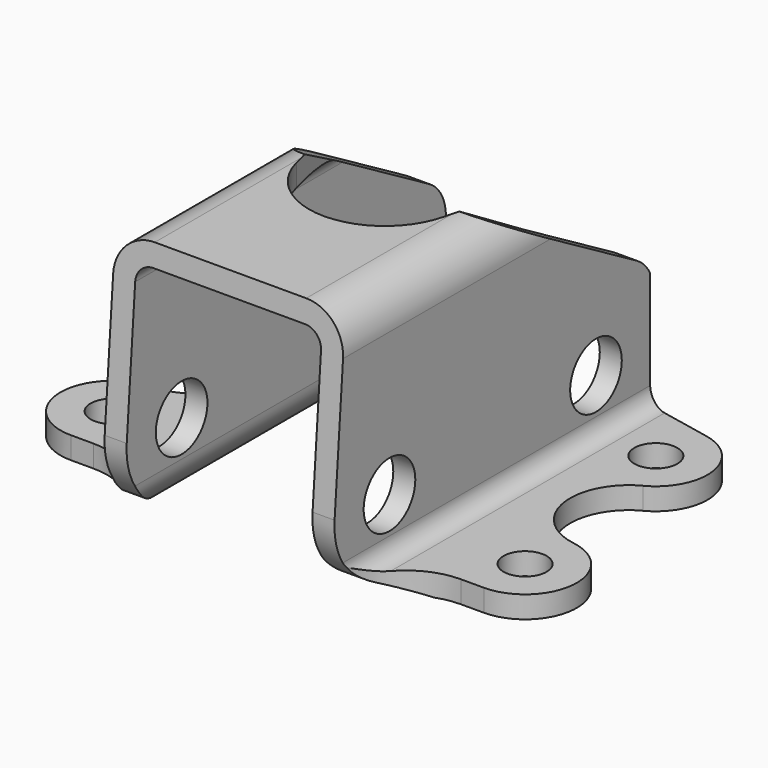
from build123d import *

# Parameters (mm, degrees)
F1_DEPTH = 25.4
F2_R     = 2.38125
F3_DEPTH = 12.7
F5_DEPTH = 63.5
F6_R     = 1.5875
F7_DEPTH = 63.5


with BuildPart() as f1:
    # F0 (on Front) → F1 (new body, symmetric)
    with BuildSketch(Plane.XZ):
        with BuildLine():
            Line((-33.1002511084, 1.6256), (-33.1002511084, 0))
            Line((-33.1002511084, 0), (-9.7536, 0))
            ThreePointArc((-9.7536, 0), (-7.7061016044, 0.8481016044), (-6.858, 2.8956))
            Line((-6.858, 2.8956), (-6.858, 16.1544))
            ThreePointArc((-6.858, 16.1544), (-6.4860256121, 17.0524256121), (-5.588, 17.4244))
            Line((-5.588, 17.4244), (5.588, 17.4244))
            ThreePointArc((5.588, 17.4244), (6.4860256121, 17.0524256121), (6.858, 16.1544))
            Line((6.858, 16.1544), (6.858, 2.8956))
            ThreePointArc((6.858, 2.8956), (7.7061016044, 0.8481016044), (9.7536, 0))
            Line((9.7536, 0), (35.6136485934, 0))
            Line((35.6136485934, 0), (35.6136485934, 1.6256))
            Line((35.6136485934, 1.6256), (9.7536, 1.6256))
            ThreePointArc((9.7536, 1.6256), (8.8555743879, 1.9975743879), (8.4836, 2.8956))
            Line((8.4836, 2.8956), (8.4836, 16.1544))
            ThreePointArc((8.4836, 16.1544), (7.6354983956, 18.2018983956), (5.588, 19.05))
            Line((5.588, 19.05), (-5.588, 19.05))
            ThreePointArc((-5.588, 19.05), (-7.6354983956, 18.2018983956), (-8.4836, 16.1544))
            Line((-8.4836, 16.1544), (-8.4836, 2.8956))
            ThreePointArc((-8.4836, 2.8956), (-8.8555743879, 1.9975743879), (-9.7536, 1.6256))
            Line((-9.7536, 1.6256), (-33.1002511084, 1.6256))
        make_face()
    extrude(amount=F1_DEPTH, both=True)

    # F2 (on Right) → F3 (cut, symmetric)
    with BuildSketch(Plane.YZ):
        with Locations((20.066, 5.588)):
            Circle(F2_R)
        with Locations((1.016, 5.588)):
            Circle(F2_R)
    extrude(amount=F3_DEPTH, both=True, mode=Mode.SUBTRACT)

    # F4 (on Right) → F5 (intersect, symmetric)
    with BuildSketch(Plane.YZ):
        with BuildLine():
            Line((-3.048, 19.05), (-4.0491707322, 5.9758729865))
            ThreePointArc((-4.0491707322, 5.9758729865), (-3.3726807453, 3.0295079996), (-1.142046819, 0.9891703742))
            Line((-1.142046819, 0.9891703742), (0.9658898494, 0))
            Line((0.9658898494, 0), (0.9658898494, -3.7190427538))
            Line((0.9658898494, -3.7190427538), (25.4, -3.7190427538))
            Line((25.4, -3.7190427538), (25.4, 0))
            Line((25.4, 0), (25.4, 8.763))
            ThreePointArc((25.4, 8.763), (24.9789926145, 10.3429207827), (23.8276222491, 11.5038441996))
            Line((23.8276222491, 11.5038441996), (10.922, 19.05))
            Line((10.922, 19.05), (-3.048, 19.05))
        make_face()
    extrude(amount=F5_DEPTH, both=True, mode=Mode.INTERSECT)

    # F6 (on Top) → F7 (intersect, symmetric)
    with BuildSketch(Plane.XY):
        with BuildLine():
            ThreePointArc((-14.0419021, 16.754134221), (-11.4555767164, 12.3367765251), (-15.24, 8.89))
            ThreePointArc((-15.24, 8.89), (-19.05, 5.08), (-15.24, 1.27))
            Line((-15.24, 1.27), (-13.5636, 1.27))
            ThreePointArc((-13.5636, 1.27), (-9.9714975516, -0.2178975516), (-8.4836, -3.81))
            Line((-8.4836, -3.81), (-8.4836, -8.5270870477))
            Line((-8.4836, -8.5270870477), (8.4836, -8.5270870477))
            Line((8.4836, -8.5270870477), (8.4836, -3.81))
            ThreePointArc((8.4836, -3.81), (9.9714975516, -0.2178975516), (13.5636, 1.27))
            Line((13.5636, 1.27), (15.24, 1.27))
            ThreePointArc((15.24, 1.27), (19.0391423785, 4.7925679424), (15.8132258851, 8.8466313975))
            ThreePointArc((15.8132258851, 8.8466313975), (12.203632925, 12.4056054875), (14.4638508851, 16.9428813975))
            ThreePointArc((14.4638508851, 16.9428813975), (16.4726911093, 20.8518851319), (13.4614256967, 24.0531395512))
            Line((13.4614256967, 24.0531395512), (6.858, 25.4))
            Line((6.858, 25.4), (6.858, 15.8741267216))
            add(Edge.make_bspline(
                [(6.7508981156, 15.0011278174), (6.858, 15.4184115393), (6.858, 15.8741267216)],
                knots=[4.2987589202, 4.2987589202, 4.2987589202, 4.7123889804, 4.7123889804, 4.7123889804], degree=2, weights=[1, 0.9786898915, 1]))
            Line((6.7508981156, 15.0011278174), (5.4125625526, 9.7867877722))
            ThreePointArc((5.4125625526, 9.7867877722), (0, 5.588), (-5.4125625526, 9.7867877722))
            Line((-5.4125625526, 9.7867877722), (-6.7508981156, 15.0011278174))
            Line((-6.7508981156, 15.0011278174), (-6.858, 15.4184115393))
            Line((-6.858, 15.4184115393), (-6.858, 15.8741267216))
            Line((-6.858, 15.8741267216), (-6.858, 25.4))
            Line((-6.858, 25.4), (-13.4614256967, 24.0531395512))
            ThreePointArc((-13.4614256967, 24.0531395512), (-16.4980082488, 20.6220485762), (-14.0419021, 16.754134221))
        make_face()
        with Locations((-15.24, 5.08)):
            Circle(F6_R, mode=Mode.SUBTRACT)
        with Locations((15.24, 5.08)):
            Circle(F6_R, mode=Mode.SUBTRACT)
        with Locations((-12.7, 20.32)):
            Circle(F6_R, mode=Mode.SUBTRACT)
        with Locations((12.7, 20.32)):
            Circle(F6_R, mode=Mode.SUBTRACT)
        with BuildLine():
            add(Edge.make_bspline(
                [(-6.858, 15.8741267216), (-6.858, 15.4184115393), (-6.7508981156, 15.0011278174)],
                knots=[1.5707963268, 1.5707963268, 1.5707963268, 1.984426387, 1.984426387, 1.984426387], degree=2, weights=[1, 0.9786898915, 1]))
            Line((-6.858, 15.8741267216), (-6.858, 15.4184115393))
            Line((-6.858, 15.4184115393), (-6.7508981156, 15.0011278174))
        make_face()
    extrude(amount=F7_DEPTH, both=True, mode=Mode.INTERSECT)


solid = f1.part
